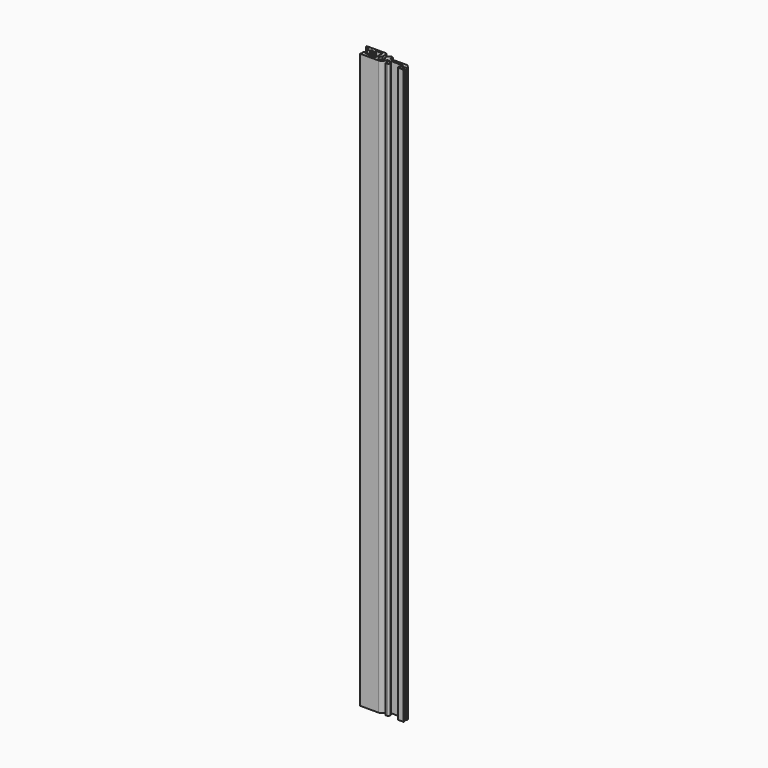
from build123d import *

# Parameters (mm, degrees)
PAD_DEPTH       = 431.8
FILLET_R        = 1
CHAMFER_SIZE    = 0.5
CHAMFER001_SIZE = 2
FILLET001_R     = 3.5
FILLET002_R     = 1
CHAMFER002_SIZE = 2
FILLET003_R     = 1


with BuildPart() as part:
    # Sketch → Pad (new body)
    with BuildSketch(Plane.XY):
        with BuildLine():
            Line((-13.5, -3.5), (3.75, -3.5))
            Line((3.75, -3.5), (3.75, 0.2))
            Line((3.75, 0.2), (5.75, 0.2))
            Line((5.75, 0.2), (5.75, -3.5))
            Line((5.75, -3.5), (8, -3.5))
            Line((8, -3.5), (8, -1.5))
            Line((8, -1.5), (6.75, -1.5))
            Line((6.75, -1.5), (6.75, 0.5))
            Line((6.75, 0.5), (15.75, 0.5))
            Line((15.75, 0.5), (15.75, -1.5))
            Line((15.75, -1.5), (14.5, -1.5))
            Line((14.5, -1.5), (14.5, -3.5))
            Line((14.5, -3.5), (19.3, -3.5))
            Line((19.3, -3.5), (19.3, -2.5))
            Line((19.3, -2.5), (17.3, -2.5))
            Line((17.3, -2.5), (17.3, -0.7))
            Line((17.3, -0.7), (19.3, -0.7))
            Line((19.3, -0.7), (19.3, 2.5))
            Line((19.3, 2.5), (4.5, 2.5))
            Line((4.5, 2.5), (4.5, 5.25))
            Line((4.5, 5.25), (1, 5.25))
            Line((1, 5.25), (1, 1.732051))
            ThreePointArc((-1, 1.732051), (0, -2), (1, 1.732051))
            Line((-1, 1.732051), (-1, 6.5))
            Line((-1, 6.5), (-16.5, 6.5))
            Line((-16.5, 6.5), (-16.5, 5))
            Line((-16.5, 5), (-13.5, 5))
            Line((-13.5, 5), (-13.5, 3.25))
            Line((-13.5, 3.25), (-11.3, 3.25))
            Line((-11.3, 3.25), (-11.3, 4.15))
            Line((-11.3, 4.15), (-9.5, 4.15))
            Line((-9.5, 4.15), (-9.5, 3.25))
            Line((-9.5, 3.25), (-8.5, 3.25))
            Line((-8.5, 3.25), (-8.5, 5))
            Line((-8.5, 5), (-3.5, 5))
            Line((-3.5, 5), (-3.5, -2))
            Line((-3.5, -2), (-8.5, -2))
            Line((-8.5, -2), (-8.5, -0.25))
            Line((-8.5, -0.25), (-9.5, -0.25))
            Line((-9.5, -0.25), (-9.5, -1.15))
            Line((-9.5, -1.15), (-11.3, -1.15))
            Line((-11.3, -1.15), (-11.3, -0.25))
            Line((-11.3, -0.25), (-13.5, -0.25))
            Line((-13.5, -0.25), (-13.5, -0.45))
            Line((-13.5, -0.45), (-13.3, -0.45))
            Line((-13.3, -0.45), (-13.3, -3.3))
            Line((-13.3, -3.3), (-13.5, -3.3))
            Line((-13.5, -3.3), (-13.5, -3.5))
        make_face()
    extrude(amount=PAD_DEPTH)

    # Fillet
    fillet_edges = [part.edges().sort_by_distance(p)[0] for p in [
        (-1, 6.5, 215.9),
    ]]
    fillet(fillet_edges, radius=FILLET_R)

    # Chamfer
    chamfer_edges = [part.edges().sort_by_distance(p)[0] for p in [
        (4.5, 5.25, 215.9),
    ]]
    chamfer(chamfer_edges, length=CHAMFER_SIZE)

    # Chamfer001
    chamfer001_edges = [part.edges().sort_by_distance(p)[0] for p in [
        (1, 5.25, 215.9),
    ]]
    chamfer(chamfer001_edges, length=CHAMFER001_SIZE)

    # Fillet001
    fillet001_edges = [part.edges().sort_by_distance(p)[0] for p in [
        (3.75, -3.5, 215.9),
    ]]
    fillet(fillet001_edges, radius=FILLET001_R)

    # Fillet002
    fillet002_edges = [part.edges().sort_by_distance(p)[0] for p in [
        (8, -3.5, 215.9),
        (14.5, -3.5, 215.9),
    ]]
    fillet(fillet002_edges, radius=FILLET002_R)

    # Chamfer002
    chamfer002_edges = [part.edges().sort_by_distance(p)[0] for p in [
        (19.3, 2.5, 215.9),
    ]]
    chamfer(chamfer002_edges, length=CHAMFER002_SIZE)

    # Fillet003
    fillet003_edges = [part.edges().sort_by_distance(p)[0] for p in [
        (-16.5, 5, 215.9),
    ]]
    fillet(fillet003_edges, radius=FILLET003_R)


solid = part.part
